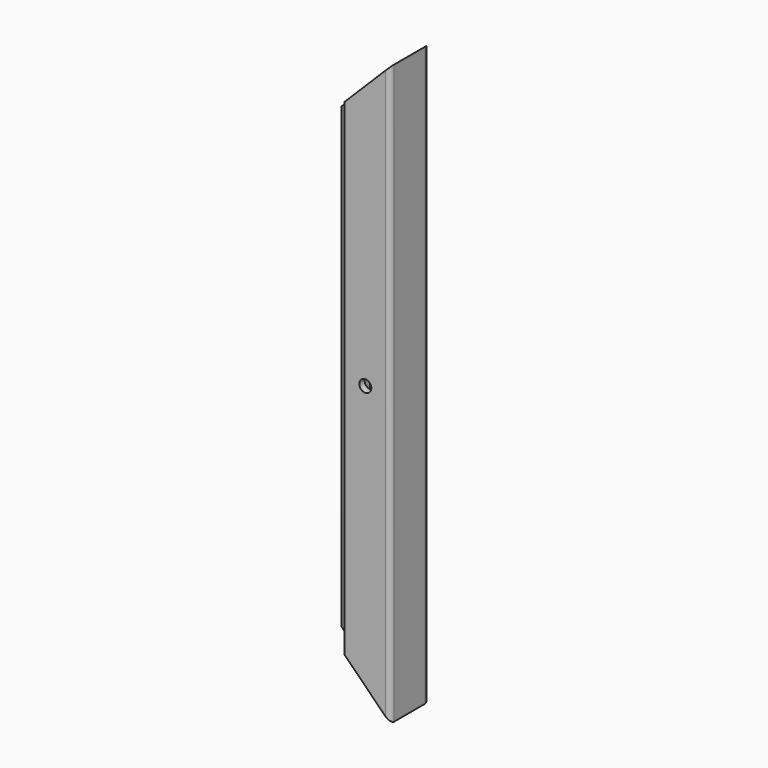
from build123d import *

# Parameters (mm, degrees)
F0_W      = 63.5
F0_H      = 50.8
F1_DEPTH  = 609.6
F3_DEPTH  = 76.2
F5_R      = 15.0324721588
F6_DEPTH  = 609.6
F7_R      = 5.08
F8_R      = 6.35
F9_DEPTH  = 76.2
F4_W      = 49.2759997249
F4_H      = 36.5759997249
F10_DEPTH = 609.6


with BuildPart() as f1:
    # F0 (on Top) → F1 (new body)
    with BuildSketch(Plane.XY):
        with Locations((31.75, 25.4)):
            Rectangle(F0_W, F0_H)
    extrude(amount=F1_DEPTH)

    # F2 (on face) → F3 (cut)
    with BuildSketch(Plane(origin=(0, 50.8, 0), x_dir=(-1, 0, 0), z_dir=(0, 1, 0))):
        Polygon((13.9825628959, 77.4825628959), (0, 63.5), (0, 0), (40.1009321213, 0), align=None)
        Polygon((0, 63.5), (-63.5, 0), (0, 0), align=None)
        Polygon((0, 609.6), (-63.5, 609.6), (0, 546.1), align=None)
    extrude(amount=-F3_DEPTH, mode=Mode.SUBTRACT)

    # F5 (on Top) → F6 (cut)
    with BuildSketch(Plane.XY):
        Circle(F5_R)
    extrude(amount=F6_DEPTH, mode=Mode.SUBTRACT)

    # F7
    f7_edges = [f1.edges().sort_by_distance(p)[0] for p in [
        (63.5, 50.8, 304.8),
        (63.5, 0, 304.8),
    ]]
    fillet(f7_edges, radius=F7_R)

    # F8 (on face) → F9 (cut)
    with BuildSketch(Plane.XZ):
        with Locations((37.0356701314, 304.8)):
            Circle(F8_R)
    extrude(amount=-F9_DEPTH, mode=Mode.SUBTRACT)

    # F4 (on Top) → F10 (cut)
    with BuildSketch(Plane.XY):
        with Locations((31.75, 25.4)):
            Rectangle(F4_W, F4_H)
    extrude(amount=F10_DEPTH, mode=Mode.SUBTRACT)


solid = f1.part
